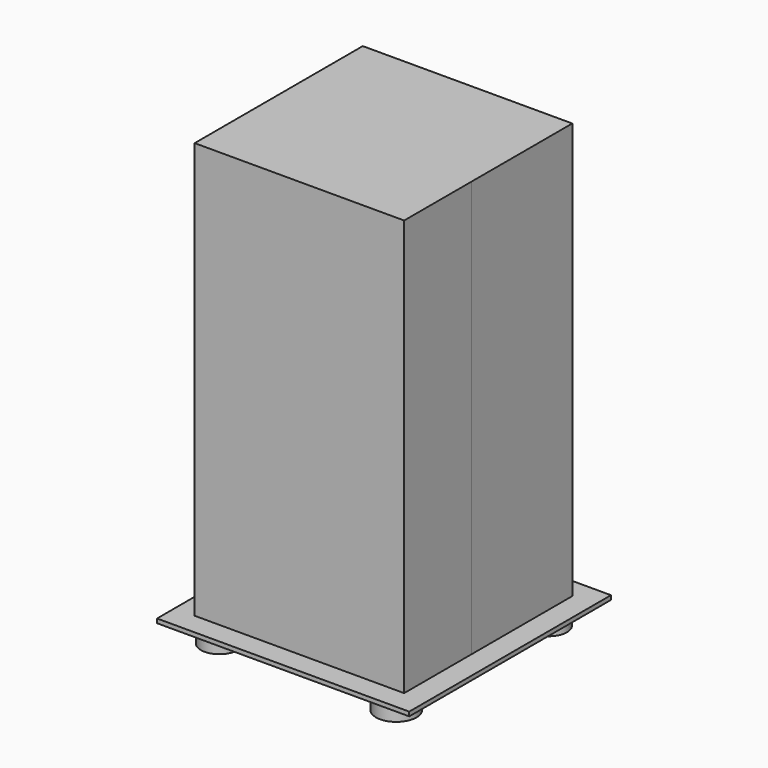
from build123d import *

# Parameters (mm, degrees)
F1_W      = 63.300895
F1_H      = 127
F2_DEPTH  = 25.4
F2_FACE_W = 63.300894
F2_FACE_H = 127
F3_DEPTH  = 38.1
F0_W      = 76.2
F0_H      = 76.2
F0_W_2    = 63.5
F0_H_2    = 63.5
F4_DEPTH  = 1.27
F5_R      = 5.570657
F5_R_2    = 6.11713
F5_R_3    = 5.40011
F5_R_4    = 5.400115
F6_DEPTH  = 6.35


with BuildPart() as f2:
    # F1 (on Front) → F2 (new body)
    with BuildSketch(Plane.XZ):
        with Locations((0.75961, 63.5)):
            Rectangle(F1_W, F1_H)
    extrude(amount=F2_DEPTH)

    # F2_face (on face) → F3 (join)
    with BuildSketch(Plane(origin=(0.75961, 0, 63.5), x_dir=(1, 0, 0), z_dir=(0, 1, 0))):
        Rectangle(F2_FACE_W, F2_FACE_H)
    extrude(amount=F3_DEPTH)

    # F0 (on Top) → F4 (join)
    with BuildSketch(Plane.XY):
        with Locations((1.143001, 6.07413)):
            Rectangle(F0_W, F0_H)
        with Locations((1.143001, 6.07413)):
            Rectangle(F0_W_2, F0_H_2, mode=Mode.SUBTRACT)
        with Locations((1.143001, 6.07413)):
            Rectangle(F0_W_2, F0_H_2)
    extrude(amount=F4_DEPTH)

    # F5 (on face) → F6 (join)
    with BuildSketch(Plane(origin=(0, 0, 0), x_dir=(1, 0, 0), z_dir=(0, 0, -1))):
        with Locations((-26.67, 21.333355)):
            Circle(F5_R)
        with Locations((27.178001, 21.841355)):
            Circle(F5_R_2)
        with Locations((28.448002, -34.292646)):
            Circle(F5_R_3)
        with Locations((-28.956, -34.546643)):
            Circle(F5_R_4)
    extrude(amount=F6_DEPTH)


solid = f2.part
